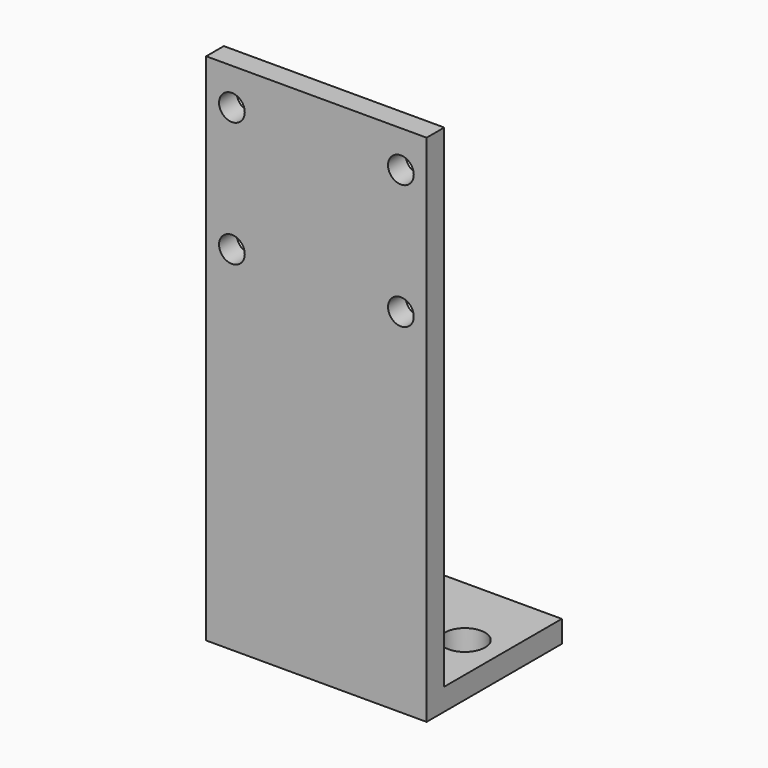
from build123d import *

# Parameters (mm, degrees)
F0_W     = 30
F0_H     = 70
F1_DEPTH = 3
F2_W     = 30
F2_H     = 3
F3_DEPTH = 20
F4_R     = 2.75
F5_DEPTH = 3.001
F6_R     = 1.75
F7_DEPTH = 23.001


with BuildPart() as f1:
    # F0 (on Front) → F1 (new body)
    with BuildSketch(Plane.XZ):
        with Locations((2.5, 35)):
            Rectangle(F0_W, F0_H)
    extrude(amount=F1_DEPTH)

    # F2 (on face) → F3 (join)
    with BuildSketch(Plane(origin=(0, 0, 0), x_dir=(-1, 0, 0), z_dir=(0, 1, 0))):
        with Locations((-2.5, 1.5)):
            Rectangle(F2_W, F2_H)
    extrude(amount=F3_DEPTH)

    # F4 (on face) → F5 (cut, through all)
    with BuildSketch(Plane.XY.offset(3)):
        with Locations((12.5, 9.75894)):
            Circle(F4_R)
        with Locations((-7.5, 9.75894)):
            Circle(F4_R)
    extrude(amount=-F5_DEPTH, mode=Mode.SUBTRACT)

    # F6 (on face) → F7 (cut, through all)
    with BuildSketch(Plane.XZ.offset(3)):
        with Locations((-9, 65)):
            Circle(F6_R)
        with Locations((-9, 48)):
            Circle(F6_R)
        with Locations((14, 65)):
            Circle(F6_R)
        with Locations((14, 48)):
            Circle(F6_R)
    extrude(amount=-F7_DEPTH, mode=Mode.SUBTRACT)


solid = f1.part
